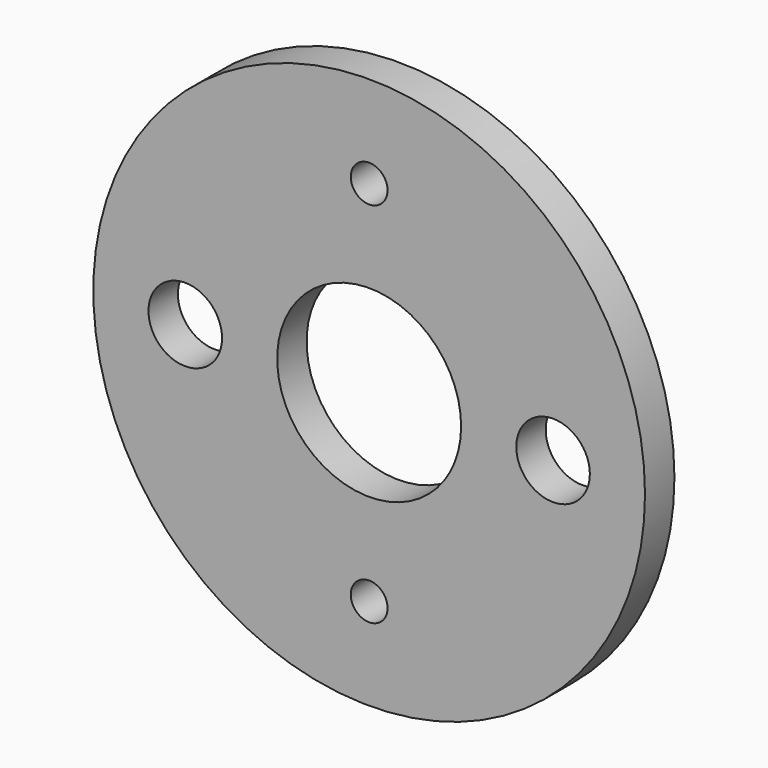
from build123d import *

# Parameters (mm, degrees)
F0_R     = 75
F0_R_2   = 5
F0_R_3   = 10
F0_R_4   = 25
F1_DEPTH = 10


with BuildPart() as f1:
    # F0 (on Front) → F1 (new body)
    with BuildSketch(Plane.XZ):
        Circle(F0_R)
        with Locations((0, -50)):
            Circle(F0_R_2, mode=Mode.SUBTRACT)
        with Locations((-50, 0)):
            Circle(F0_R_3, mode=Mode.SUBTRACT)
        Circle(F0_R_4, mode=Mode.SUBTRACT)
        with Locations((50, 0)):
            Circle(F0_R_3, mode=Mode.SUBTRACT)
        with Locations((0, 50)):
            Circle(F0_R_2, mode=Mode.SUBTRACT)
    extrude(amount=F1_DEPTH)


solid = f1.part
